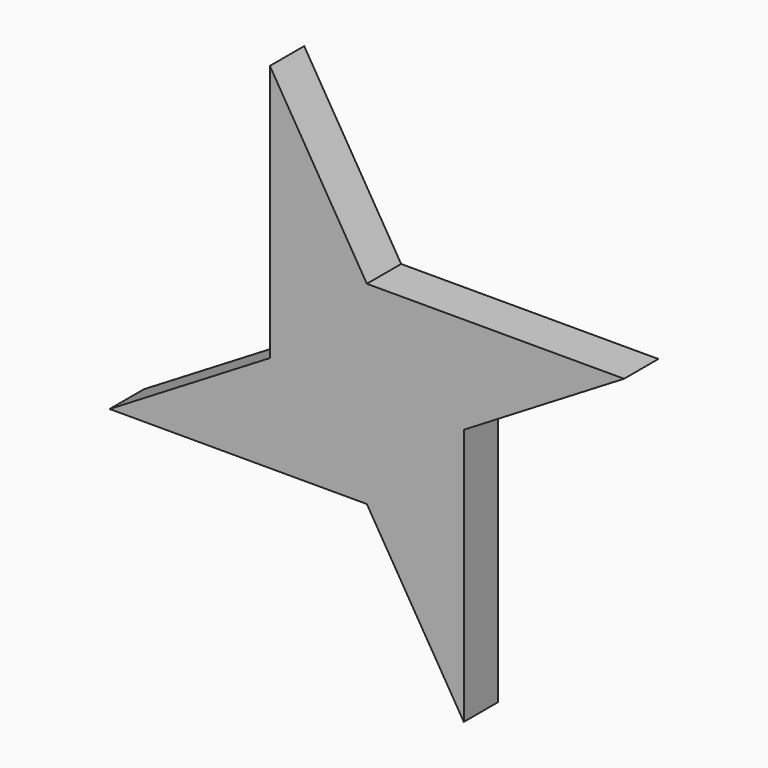
from build123d import *

# Parameters (mm, degrees)
F1_DEPTH = 6.35
F3_D     = 38.1
F3_DEPTH = 6.351


with BuildPart() as f1:
    # F0 (on Front) → F1 (new body, symmetric)
    with BuildSketch(Plane.XZ):
        with BuildLine():
            Line((-28.7224338679, 0), (28.7224338679, 0))
            ThreePointArc((28.7224338679, 0), (20.3098277602, 20.3098277602), (0, 28.7224338679))
            ThreePointArc((0, 28.7224338679), (-20.3098277602, 20.3098277602), (-28.7224338679, 0))
        make_face()
        with BuildLine():
            Line((28.7224338679, -76.2), (28.7224338679, 0))
            ThreePointArc((28.7224338679, 0), (20.3098277602, -20.3098277602), (0, -28.7224338679))
            Line((0, -28.7224338679), (28.7224338679, -76.2))
        make_face()
        with BuildLine():
            ThreePointArc((0, -28.7224338679), (20.3098277602, -20.3098277602), (28.7224338679, 0))
            Line((28.7224338679, 0), (-28.7224338679, 0))
            ThreePointArc((-28.7224338679, 0), (-20.3098277602, -20.3098277602), (0, -28.7224338679))
        make_face()
        with BuildLine():
            ThreePointArc((0, 28.7224338679), (20.3098277602, 20.3098277602), (28.7224338679, 0))
            Line((28.7224338679, 0), (76.2, 28.7224338679))
            Line((76.2, 28.7224338679), (0, 28.7224338679))
        make_face()
        with BuildLine():
            ThreePointArc((-28.7224338679, 0), (-20.3098277602, 20.3098277602), (0, 28.7224338679))
            Line((0, 28.7224338679), (-28.7224338679, 76.2))
            Line((-28.7224338679, 76.2), (-28.7224338679, 0))
        make_face()
        with BuildLine():
            Line((-76.2, -28.7224338679), (0, -28.7224338679))
            ThreePointArc((0, -28.7224338679), (-20.3098277602, -20.3098277602), (-28.7224338679, 0))
            Line((-28.7224338679, 0), (-76.2, -28.7224338679))
        make_face()
    extrude(amount=F1_DEPTH, both=True)

    # F3 (through all, one way)
    with BuildSketch(Plane.XZ):
        with Locations((0, 0)):
            Circle(F3_D / 2)
    extrude(amount=-F3_DEPTH, mode=Mode.SUBTRACT)


solid = f1.part
